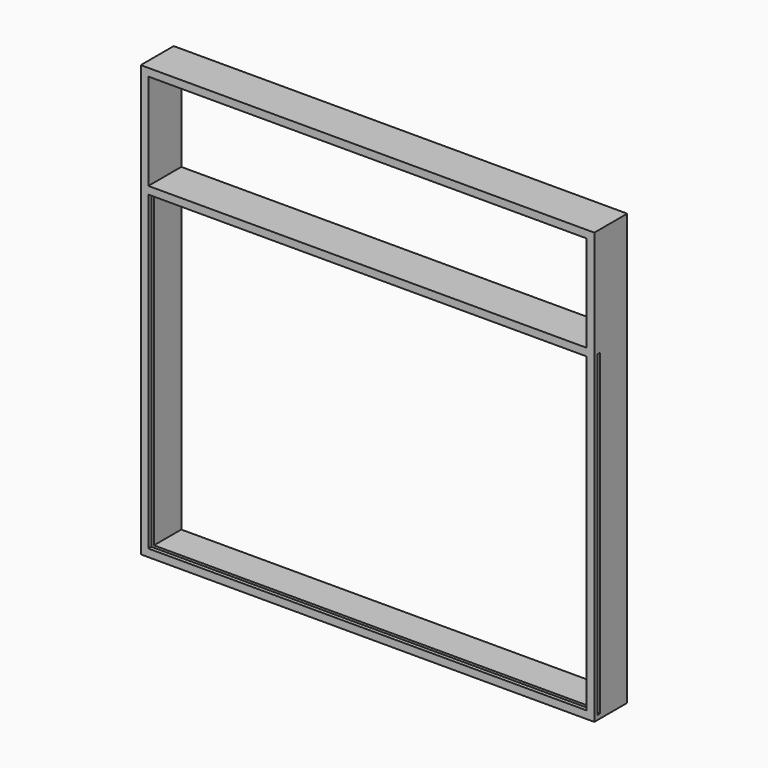
from build123d import *

# Parameters (mm, degrees)
F0_W     = 692
F0_H     = 12
F1_DEPTH = 65
F2_W     = 5
F2_H     = 5
F3_DEPTH = 709
F4_W     = 5
F4_H     = 4.429847
F5_DEPTH = 709
F6_W     = 5
F6_H     = 5
F7_DEPTH = 509
F8_W     = 5
F8_H     = 492
F9_DEPTH = 12


with BuildPart() as f1:
    # F0 (on Front) → F1 (new body)
    with BuildSketch(Plane.XZ):
        Polygon((59.521648, 466.902112), (-632.478352, 466.902112), (-636.478352, 466.902112), (-636.478352, 454.902112), (-632.478352, 454.902112), (59.521648, 454.902112), (63.521648, 454.902112), (63.521648, 466.902112), align=None)
        Polygon((-634.478352, 630.902112), (-644.478352, 630.902112), (-644.478352, -49.097888), (-632.478352, -49.097888), (-632.478352, -37.097888), (-632.478352, 454.902112), (-636.478352, 454.902112), (-636.478352, 466.902112), (-632.478352, 466.902112), (-632.478352, 618.902112), (-632.478352, 630.902112), align=None)
        with Locations((-286.478352, 624.902112)):
            Rectangle(F0_W, F0_H)
        Polygon((71.521648, 630.902112), (59.521648, 630.902112), (59.521648, 618.902112), (59.521648, 466.902112), (63.521648, 466.902112), (63.521648, 454.902112), (59.521648, 454.902112), (59.521648, -37.097888), (59.521648, -49.097888), (71.521648, -49.097888), align=None)
        with Locations((-286.478352, -43.097888)):
            Rectangle(F0_W, F0_H)
    extrude(amount=F1_DEPTH)

    # F2 (on face) → F3 (cut)
    with BuildSketch(Plane.YZ.offset(71.521648)):
        with Locations((-56.5, -39.597888)):
            Rectangle(F2_W, F2_H)
    extrude(amount=-F3_DEPTH, mode=Mode.SUBTRACT)

    # F4 (on face) → F5 (cut)
    with BuildSketch(Plane.YZ.offset(71.521648)):
        with Locations((-56.5, 457.117035)):
            Rectangle(F4_W, F4_H)
    extrude(amount=-F5_DEPTH, mode=Mode.SUBTRACT)

    # F6 (on face) → F7 (cut)
    with BuildSketch(Plane(origin=(0, 0, -49.097888), x_dir=(1, 0, 0), z_dir=(0, 0, -1))):
        with Locations((-634.978352, 56.5)):
            Rectangle(F6_W, F6_H)
    extrude(amount=-F7_DEPTH, mode=Mode.SUBTRACT)

    # F8 (on face) → F9 (cut)
    with BuildSketch(Plane.YZ.offset(71.521648)):
        with Locations((-56.5, 208.902112)):
            Rectangle(F8_W, F8_H)
    extrude(amount=-F9_DEPTH, mode=Mode.SUBTRACT)


solid = f1.part
